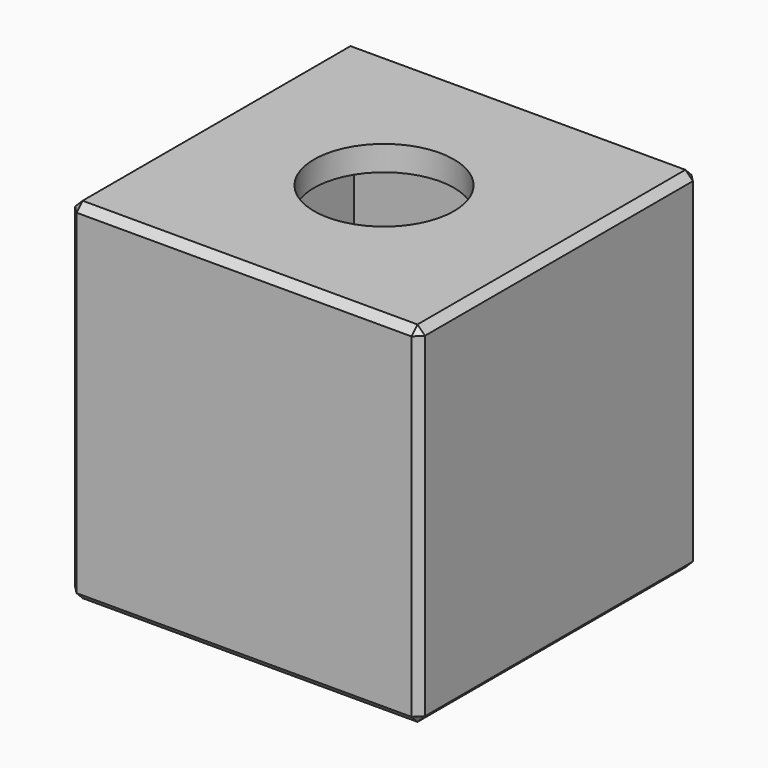
from build123d import *

# Parameters (mm, degrees)
SKETCH_W        = 70
SKETCH_H        = 70
PAD_DEPTH       = 70
SKETCH001_W     = 60
SKETCH001_H     = 60
POCKET_DEPTH    = 65
SKETCH002_W     = 65
SKETCH002_H     = 65
POCKET001_DEPTH = 2.5
SKETCH004_W     = 12.5
SKETCH004_H     = 12.5
PAD001_DEPTH    = 8
SKETCH005_R     = 1.375
POCKET002_DEPTH = 10
SKETCH006_R     = 14
POCKET003_DEPTH = 70.001
FILLET_R        = 5
FILLET001_R     = 5
FILLET002_R     = 5
CHAMFER_SIZE    = 1.5


with BuildPart() as part:
    # Sketch → Pad (new body)
    with BuildSketch(Plane.XY):
        Rectangle(SKETCH_W, SKETCH_H)
    extrude(amount=PAD_DEPTH)

    # Sketch001 → Pocket (cut)
    with BuildSketch(Plane.XY):
        Rectangle(SKETCH001_W, SKETCH001_H)
    extrude(amount=POCKET_DEPTH, mode=Mode.SUBTRACT)

    # Sketch002 → Pocket001 (cut)
    with BuildSketch(Plane.XY):
        Rectangle(SKETCH002_W, SKETCH002_H)
    extrude(amount=POCKET001_DEPTH, mode=Mode.SUBTRACT)

    # Sketch004 (on DatumPlane) → Pad001 (join)
    with BuildSketch(Plane.XY.offset(7)):
        with Locations((-23.75, 23.75)):
            Rectangle(SKETCH004_W, SKETCH004_H)
        with Locations((23.75, 23.75)):
            Rectangle(SKETCH004_W, SKETCH004_H)
        with Locations((-23.75, -23.75)):
            Rectangle(SKETCH004_W, SKETCH004_H)
        with Locations((23.75, -23.75)):
            Rectangle(SKETCH004_W, SKETCH004_H)
    extrude(amount=PAD001_DEPTH)

    # Sketch005 (on DatumPlane) → Pocket002 (cut)
    with BuildSketch(Plane.XY.offset(7)):
        with Locations((-22.5, 22.5)):
            Circle(SKETCH005_R)
        with Locations((22.5, 22.5)):
            Circle(SKETCH005_R)
        with Locations((22.5, -22.5)):
            Circle(SKETCH005_R)
        with Locations((-22.5, -22.5)):
            Circle(SKETCH005_R)
    extrude(amount=POCKET002_DEPTH, mode=Mode.SUBTRACT)

    # Sketch006 → Pocket003 (cut, through all)
    with BuildSketch(Plane.XY):
        Circle(SKETCH006_R)
    extrude(amount=POCKET003_DEPTH, mode=Mode.SUBTRACT)

    # Fillet
    fillet_edges = [part.edges().sort_by_distance(p)[0] for p in [
        (17.5, 30, 11),
        (17.5, 17.5, 11),
        (30, 17.5, 11),
        (30, -17.5, 11),
        (17.5, -17.5, 11),
        (17.5, -30, 11),
        (-17.5, -30, 11),
        (-17.5, -17.5, 11),
        (-30, -17.5, 11),
        (-30, 17.5, 11),
        (-17.5, 17.5, 11),
        (-17.5, 30, 11),
    ]]
    fillet(fillet_edges, radius=FILLET_R)

    # Fillet001
    fillet001_edges = [part.edges().sort_by_distance(p)[0] for p in [
        (30, 30, 4.75),
        (30, -30, 4.75),
        (-30, -30, 4.75),
        (-30, 30, 4.75),
    ]]
    fillet(fillet001_edges, radius=FILLET001_R)

    # Fillet002
    fillet002_edges = [part.edges().sort_by_distance(p)[0] for p in [
        (32.5, -32.5, 1.25),
        (32.5, 32.5, 1.25),
        (-32.5, 32.5, 1.25),
        (-32.5, -32.5, 1.25),
    ]]
    fillet(fillet002_edges, radius=FILLET002_R)

    # Chamfer
    chamfer_edges = [part.edges().sort_by_distance(p)[0] for p in [
        (35, 35, 35),
        (0, 35, 0),
        (35, 0, 0),
        (-35, 35, 35),
        (0, 35, 70),
        (-35, 0, 70),
        (0, -35, 70),
        (35, 0, 70),
        (-35, -35, 35),
        (-35, 0, 0),
        (0, -35, 0),
        (35, -35, 35),
    ]]
    chamfer(chamfer_edges, length=CHAMFER_SIZE)


solid = part.part
